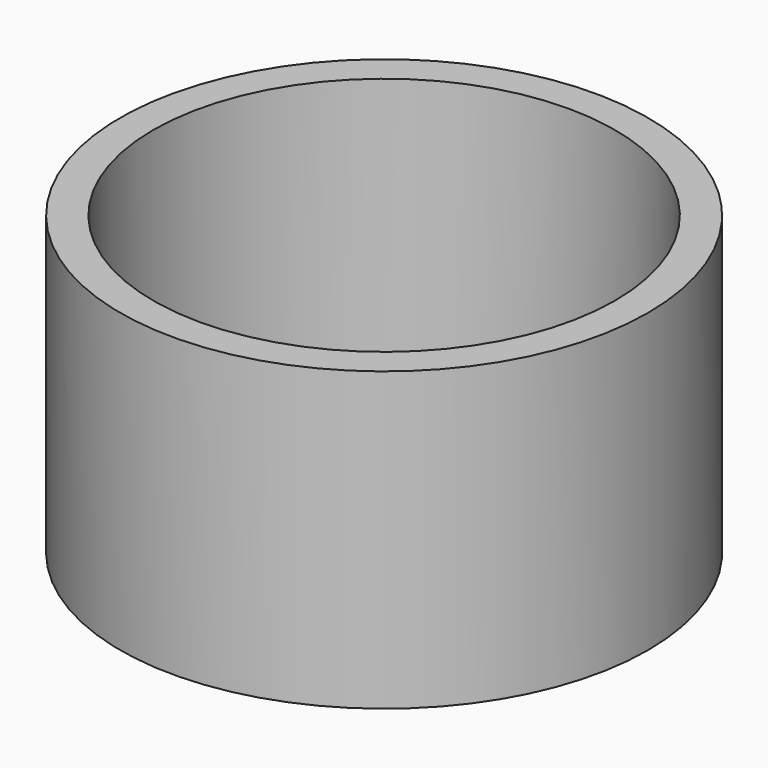
from build123d import *

# Parameters (mm, degrees)
F0_R     = 25.4
F1_DEPTH = 3.175
F2_R     = 25.4
F2_R_2   = 22.225
F3_DEPTH = 25.4
F4_D     = 5


with BuildPart() as f1:
    # F0 (on Top) → F1 (new body)
    with BuildSketch(Plane.XY):
        Circle(F0_R)
    extrude(amount=F1_DEPTH)

    # F2 (on face) → F3 (join)
    with BuildSketch(Plane.XY.offset(3.175)):
        Circle(F2_R)
        Circle(F2_R_2, mode=Mode.SUBTRACT)
    extrude(amount=F3_DEPTH)

    # F4 (through all)
    with Locations(Plane(origin=(0, 0, 0), x_dir=(1, 0, 0), z_dir=(0, 0, -1))):
        with Locations((0, 0)):
            Hole(F4_D / 2)


solid = f1.part
